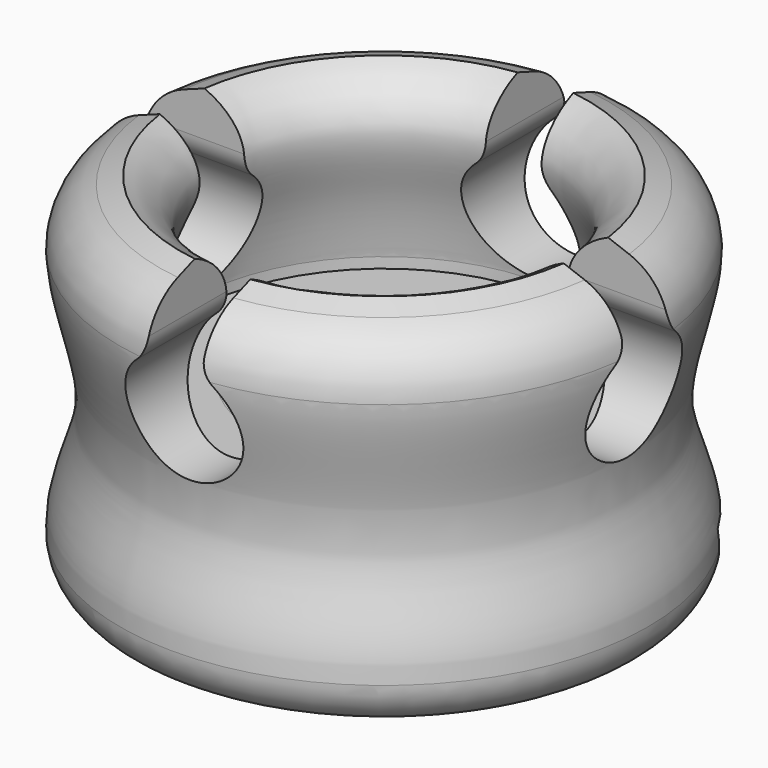
from build123d import *

# Parameters (mm, degrees)
F3_DEPTH = 12.5
F5_DEPTH = 12.5
F7_DEPTH = 25
F9_DEPTH = 1.8


with BuildPart() as f1:
    # F0 (on Front) → F1 (revolve)
    with BuildSketch(Plane.XZ):
        with BuildLine():
            Line((-3.885, 2.8514790983), (-3.885, 3.2501124266))
            ThreePointArc((-3.885, 3.2501124266), (-4.0172351663, 3.5693563585), (-4.3364790983, 3.7015915249))
            Line((-4.3364790983, 3.7015915249), (-6.4029101319, 3.7015915249))
            Line((-6.4029101319, 3.7015915249), (-6.4029101319, 4.05098591))
            add(Edge.make_bspline(
                [(-6.775, 9.75), (-6.1852028954, 9.5079040751), (-5.0229793654, 8.4884373691), (-6.0690583203, 6.1819593709), (-6.3013543769, 4.7207139972), (-6.4029101319, 4.05098591)],
                knots=[0, 0, 0, 0, 0.3116848323, 0.6589798699, 1, 1, 1, 1], degree=3))
            Line((-6.775, 9.75), (-7.4722778045, 9.4906280921))
            ThreePointArc((-7.4722778045, 9.4906280921), (-8.4173391259, 8.7574824073), (-8.775, 7.6161138448))
            add(Edge.make_bspline(
                [(-8.775, 7.6161138448), (-8.7391128764, 6.3200565055), (-7.2234290176, 2.9499396808), (-8.8013596833, 0.7386573125), (-8.775, -0.6)],
                knots=[0, 0, 0, 0, 0.5234812258, 1, 1, 1, 1], degree=3))
            ThreePointArc((-8.775, -0.6), (-8.3356601718, -1.6606601718), (-7.275, -2.1))
            Line((-7.275, -2.1), (-4.895, -2.1))
            Line((-4.895, -2.1), (-4.895, -1.6))
            Line((-4.895, -1.6), (-6.145, -1.6))
            Line((-6.145, -1.6), (-6.145, 0))
            Line((-6.145, 0), (-4.895, 0))
            Line((-4.895, 0), (-4.895, 2.4))
            Line((-4.895, 2.4), (-4.3364790983, 2.4))
            ThreePointArc((-4.3364790983, 2.4), (-4.0172351663, 2.5322351663), (-3.885, 2.8514790983))
        make_face()
    revolve(axis=Axis((0, 0, -0.5091296847), (0, 0, -1)))

    # F2 (on Right) → F3 (cut, symmetric)
    with BuildSketch(Plane.YZ):
        with BuildLine():
            ThreePointArc((-0.925, 8.2572715546), (-1.0144727741, 7.8438224393), (-1.2668803419, 7.5043582026))
            ThreePointArc((-1.2668803419, 7.5043582026), (0, 4.13), (1.2668803419, 7.5043582026))
            ThreePointArc((1.2668803419, 7.5043582026), (1.0144727741, 7.8438224393), (0.925, 8.2572715546))
            Line((0.925, 8.2572715546), (0.925, 15.1131507009))
            Line((0.925, 15.1131507009), (-0.925, 15.1131507009))
            Line((-0.925, 15.1131507009), (-0.925, 8.2572715546))
        make_face()
    extrude(amount=F3_DEPTH, both=True, mode=Mode.SUBTRACT)

    # F4 (on Front) → F5 (cut, symmetric)
    with BuildSketch(Plane.XZ):
        with BuildLine():
            ThreePointArc((-0.925, 8.2572715546), (-1.0144727741, 7.8438224393), (-1.2668803419, 7.5043582026))
            ThreePointArc((-1.2668803419, 7.5043582026), (0, 4.13), (1.2668803419, 7.5043582026))
            ThreePointArc((1.2668803419, 7.5043582026), (1.0144727741, 7.8438224393), (0.925, 8.2572715546))
            Line((0.925, 8.2572715546), (0.925, 15.1131507009))
            Line((0.925, 15.1131507009), (-0.925, 15.1131507009))
            Line((-0.925, 15.1131507009), (-0.925, 8.2572715546))
        make_face()
    extrude(amount=F5_DEPTH, both=True, mode=Mode.SUBTRACT)

    # F6 (on Front) → F7 (cut)
    with BuildSketch(Plane.XZ):
        with BuildLine():
            add(Edge.make_bspline(
                [(-4.9065384082, 0), (-4.2591261419, 0.0473407128), (-2.8751747161, 0.147020405), (-1.4451614066, 0.7884010529), (-0.6899807869, 1.6736376196), (-0.4387735812, 1.982745766), (-0.7281222942, 2.6984238618), (0, 2.682750579)],
                knots=[0, 0, 0, 0, 0.271147346, 0.5106772182, 0.7081757993, 0.8251932352, 1, 1, 1, 1], degree=3))
            Line((-4.9065384082, 0), (0, 0))
            Line((0, 0), (4.9065384082, 0))
            add(Edge.make_bspline(
                [(4.9065384082, 0), (4.2591261419, 0.0473407128), (2.8751747161, 0.147020405), (1.4451614066, 0.7884010529), (0.6899807869, 1.6736376196), (0.4387735812, 1.982745766), (0.7281222942, 2.6984238618), (0, 2.682750579)],
                knots=[0, 0, 0, 0, 0.271147346, 0.5106772182, 0.7081757993, 0.8251932352, 1, 1, 1, 1], degree=3))
        make_face()
    extrude(amount=-F7_DEPTH, mode=Mode.SUBTRACT)

    # F8 (on face) → F9 (cut)
    with BuildSketch(Plane.XY):
        Polygon((0, 13.4046860039), (-8.2427123562, 4.9976650625), (0, 0), (8.2427123562, 4.9976650625), align=None)
    extrude(amount=-F9_DEPTH, mode=Mode.SUBTRACT)


solid = f1.part
